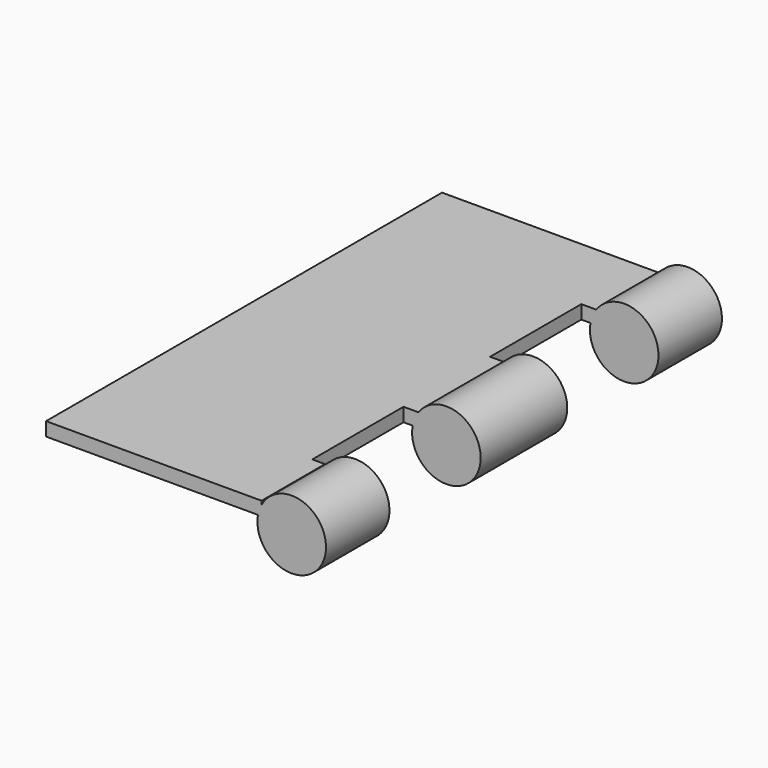
from build123d import *

# Parameters (mm, degrees)
F0_W     = 31.1658
F0_H     = 76.073
F1_DEPTH = 2.0955
F2_W     = 12.192
F2_H     = 2.0955
F2_W_2   = 16.637
F3_DEPTH = 1.9558
F4_R     = 5.2705
F5_DEPTH = 12.192
F7_DEPTH = 16.637
F9_DEPTH = 12.192


with BuildPart() as f1:
    # F0 (on Top) → F1 (new body)
    with BuildSketch(Plane.XY):
        Rectangle(F0_W, F0_H)
    extrude(amount=F1_DEPTH)

    # F2 (on face) → F3 (join)
    with BuildSketch(Plane.YZ.offset(15.5829)):
        with Locations((-31.9405, 1.04775)):
            Rectangle(F2_W, F2_H)
        with Locations((0, 1.04775)):
            Rectangle(F2_W_2, F2_H)
        with Locations((31.9405, 1.04775)):
            Rectangle(F2_W, F2_H)
    extrude(amount=F3_DEPTH)

    # F4 (on face) → F5 (join, through all)
    with BuildSketch(Plane.XZ.offset(38.0365)):
        with Locations((22.1742, -0.9652)):
            Circle(F4_R)
    extrude(amount=-F5_DEPTH)

    # F6 (on face) → F7 (join, through all)
    with BuildSketch(Plane.XZ.offset(8.3185)):
        with BuildLine():
            Line((17.5387, 0), (16.992833, 0))
            ThreePointArc((16.992833, 0), (27.024756, -3.026821), (17.883479, 2.0955))
            Line((17.883479, 2.0955), (17.5387, 2.0955))
            Line((17.5387, 2.0955), (17.5387, 0))
        make_face()
    extrude(amount=-F7_DEPTH)

    # F8 (on face) → F9 (join, through all)
    with BuildSketch(Plane.XZ.offset(-25.8445)):
        with BuildLine():
            Line((17.5387, 0), (16.992833, 0))
            ThreePointArc((16.992833, 0), (27.024756, -3.026821), (17.883479, 2.0955))
            Line((17.883479, 2.0955), (17.5387, 2.0955))
            Line((17.5387, 2.0955), (17.5387, 0))
        make_face()
    extrude(amount=-F9_DEPTH)


solid = f1.part
